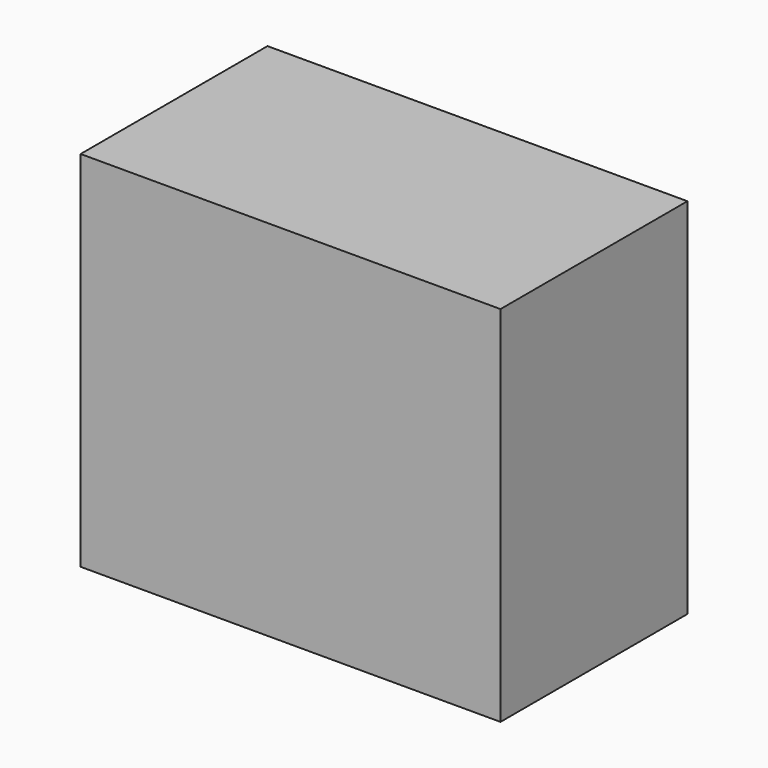
from build123d import *

# Parameters (mm, degrees)
F0_W      = 1066.8
F0_H      = 914.4
F1_DEPTH  = 1778
F1_FACE_W = 914.4
F1_FACE_H = 1778
F2_DEPTH  = 576.58
F2_FACE_W = 1643.38
F2_FACE_H = 914.4
F3_DEPTH  = 355.6


with BuildPart() as f1:
    # F0 (on Top) → F1 (new body)
    with BuildSketch(Plane.XY):
        with Locations((533.4, 457.2)):
            Rectangle(F0_W, F0_H)
    extrude(amount=F1_DEPTH)

    # F1_face (on face) → F2 (join)
    with BuildSketch(Plane(origin=(1066.8, 457.2, 889), x_dir=(0, 1, 0), z_dir=(1, 0, 0))):
        Rectangle(F1_FACE_W, F1_FACE_H)
    extrude(amount=F2_DEPTH)

    # F2_face (on face) → F3 (cut)
    with BuildSketch(Plane(origin=(821.69, 457.2, 1778), x_dir=(1, 0, 0), z_dir=(0, 0, 1))):
        Rectangle(F2_FACE_W, F2_FACE_H)
    extrude(amount=-F3_DEPTH, mode=Mode.SUBTRACT)


solid = f1.part
